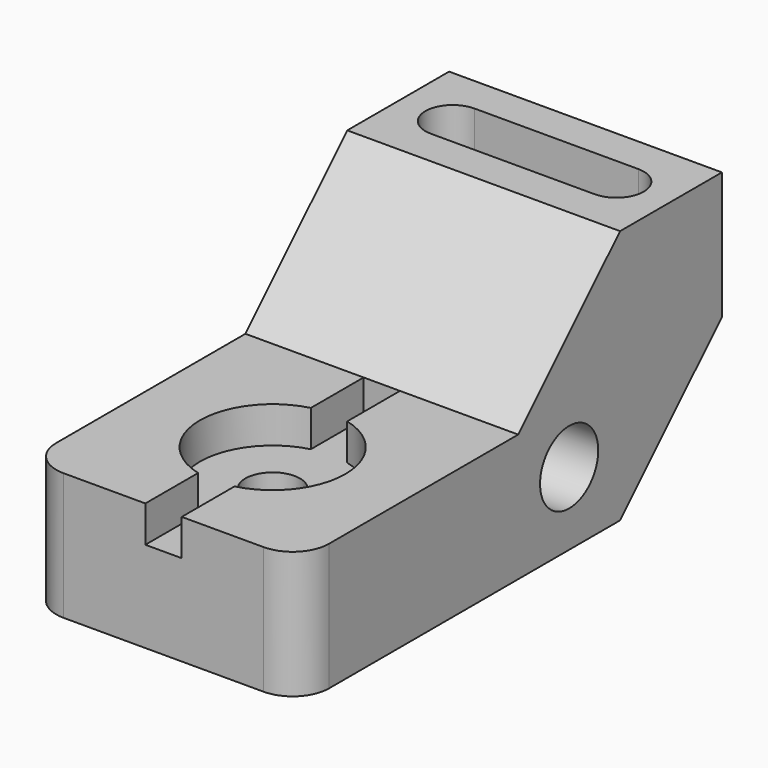
from build123d import *

# Parameters (mm, degrees)
F1_DEPTH       = 76.2
F3_DEPTH       = 27.94
F4_R           = 10.16
F5_DEPTH       = 76.201
F7_D           = 15.24
F7_CBORE_D     = 40.64
F7_CBORE_DEPTH = 10.16
F8_W           = 10.16
F8_H           = 10.16
F9_DEPTH       = 76.2
F10_R          = 10.16


with BuildPart() as f1:
    # F0 (on Right) → F1 (new body)
    with BuildSketch(Plane.YZ):
        Polygon((0, 35.56), (0, 0), (111.76, 0), (147.32, 35.56), (147.32, 71.12), (111.76, 71.12), (76.2, 35.56), align=None)
    extrude(amount=F1_DEPTH)

    # F2 (on face) → F3 (cut)
    with BuildSketch(Plane.XY.offset(71.12)):
        with BuildLine():
            ThreePointArc((15.24, 137.16), (7.62, 129.54), (15.24, 121.92))
            Line((15.24, 121.92), (60.96, 121.92))
            ThreePointArc((60.96, 121.92), (68.58, 129.54), (60.96, 137.16))
            Line((60.96, 137.16), (15.24, 137.16))
        make_face()
    extrude(amount=-F3_DEPTH, mode=Mode.SUBTRACT)

    # F4 (on face) → F5 (cut, through all)
    with BuildSketch(Plane.YZ.offset(76.2)):
        with Locations((93.98, 20.32)):
            Circle(F4_R)
    extrude(amount=-F5_DEPTH, mode=Mode.SUBTRACT)

    # F7 (through all)
    with Locations(Plane.XY.offset(35.56)):
        with Locations((38.1, 38.1)):
            CounterBoreHole(F7_D / 2, F7_CBORE_D / 2, F7_CBORE_DEPTH)

    # F8 (on face) → F9 (cut)
    with BuildSketch(Plane.XZ):
        with Locations((38.1, 30.48)):
            Rectangle(F8_W, F8_H)
    extrude(amount=-F9_DEPTH, mode=Mode.SUBTRACT)

    # F10
    f10_edges = [f1.edges().sort_by_distance(p)[0] for p in [
        (76.2, 0, 17.78),
        (0, 0, 17.78),
    ]]
    fillet(f10_edges, radius=F10_R)


solid = f1.part
